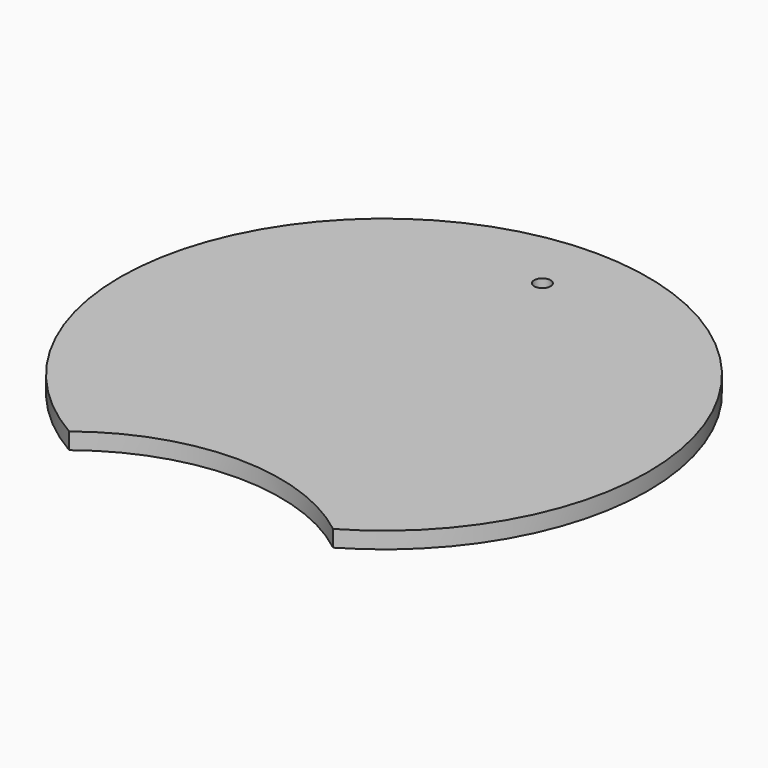
from build123d import *

# Parameters (mm, degrees)
F0_R     = 0.79375
F1_DEPTH = 1.5875


with BuildPart() as f1:
    # F0 (on Top) → F1 (new body)
    with BuildSketch(Plane.XY):
        with BuildLine():
            ThreePointArc((-12.7, -21.997045), (0, -17.591583), (12.7, -21.997045))
            ThreePointArc((12.7, -21.997045), (0, 25.4), (-12.7, -21.997045))
        make_face()
        with Locations((0, 19.05)):
            Circle(F0_R, mode=Mode.SUBTRACT)
    extrude(amount=-F1_DEPTH)


solid = f1.part
